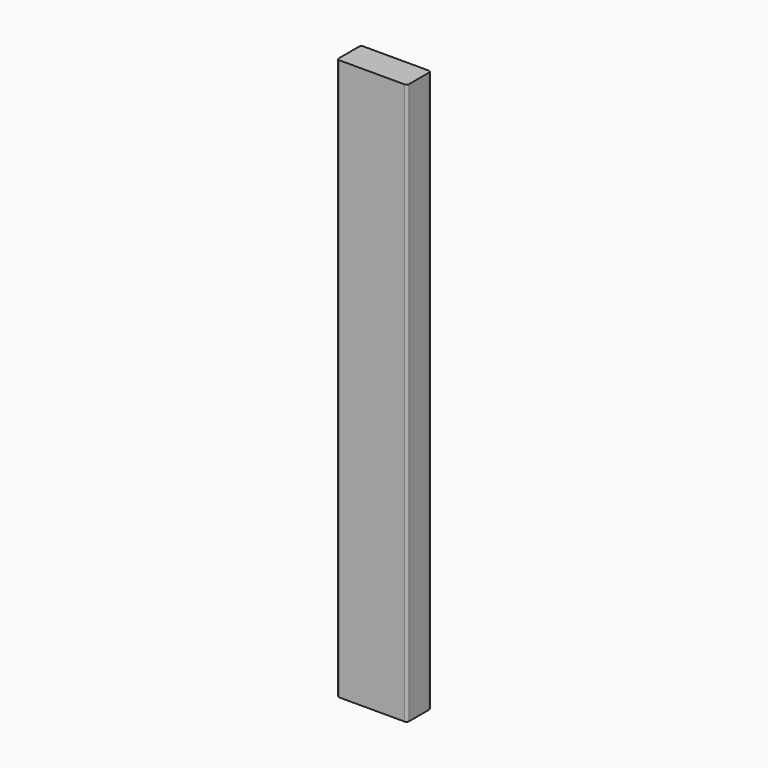
from build123d import *

# Parameters (mm, degrees)
SKETCH_W  = 88.9
SKETCH_H  = 38.1
PAD_DEPTH = 355.6
FILLET_R  = 3.048


with BuildPart() as part:
    # Sketch → Pad (new body, symmetric)
    with BuildSketch(Plane.XY):
        with Locations((-69.85, 44.45)):
            Rectangle(SKETCH_W, SKETCH_H)
    extrude(amount=PAD_DEPTH, both=True)

    # Fillet
    fillet_edges = [part.edges().sort_by_distance(p)[0] for p in [
        (-25.4, 63.5, 0),
        (-114.3, 63.5, 0),
        (-25.4, 25.4, 0),
        (-114.3, 25.4, 0),
    ]]
    fillet(fillet_edges, radius=FILLET_R)


solid = part.part
